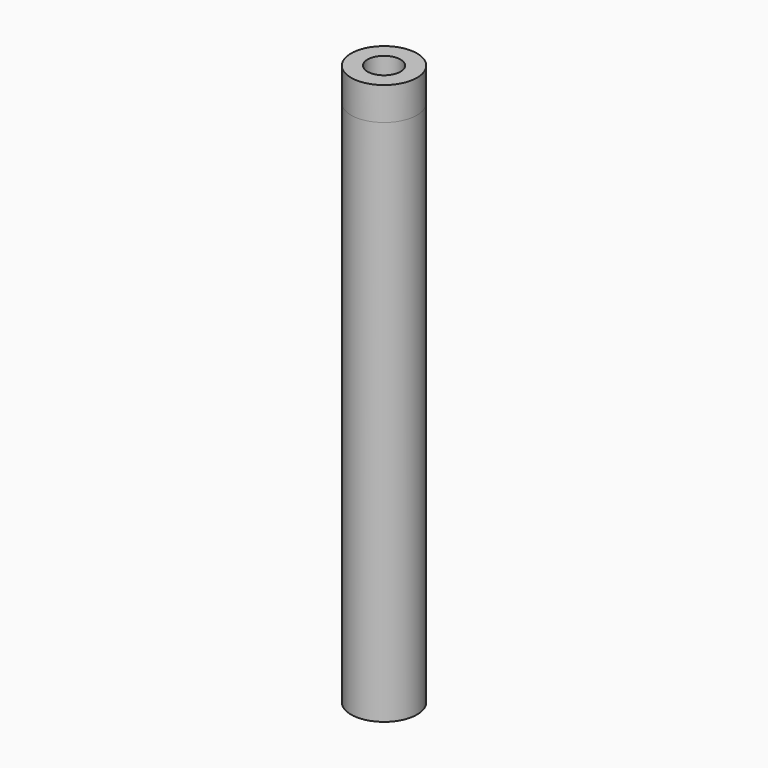
from build123d import *

# Parameters (mm, degrees)
F0_R          = 25.4
F1_DEPTH      = 406.4
F1_DEPTH_BACK = 25.4
F2_R          = 19.05
F3_DEPTH      = 355.6
F4_R          = 12.7
F5_DEPTH      = 25.401


with BuildPart() as f1:
    # F0 (on Top) → F1 (new body, two sides)
    with BuildSketch(Plane.XY) as f1_sk:
        Circle(F0_R)
    extrude(amount=-F1_DEPTH)
    extrude(f1_sk.sketch, amount=F1_DEPTH_BACK)

    # F2 (on Top) → F3 (cut)
    with BuildSketch(Plane.XY):
        Circle(F2_R)
    extrude(amount=-F3_DEPTH, mode=Mode.SUBTRACT)

    # F4 (on Top) → F5 (cut, through all)
    with BuildSketch(Plane.XY):
        Circle(F4_R)
    extrude(amount=F5_DEPTH, mode=Mode.SUBTRACT)


solid = f1.part
